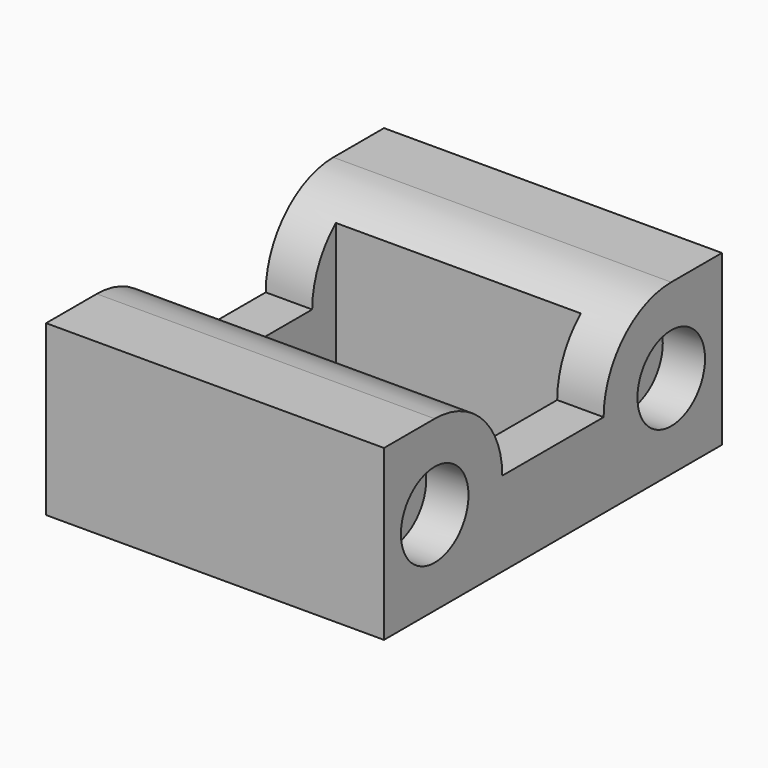
from build123d import *

# Parameters (mm, degrees)
SKETCH_W        = 40
SKETCH_H        = 50
SKETCH_W_2      = 28
SKETCH_H_2      = 21
PAD_DEPTH       = 20
SKETCH001_R     = 2.25
POCKET_DEPTH    = 40.001
SKETCH002_W     = 29
SKETCH002_H     = 22
POCKET001_DEPTH = 19
SKETCH003_R     = 5
POCKET002_DEPTH = 5
POCKET003_DEPTH = 40.001


with BuildPart() as part:
    # Sketch → Pad (new body)
    with BuildSketch(Plane.XY):
        with Locations((20, 25)):
            Rectangle(SKETCH_W, SKETCH_H)
        with Locations((20, 25)):
            Rectangle(SKETCH_W_2, SKETCH_H_2, mode=Mode.SUBTRACT)
    extrude(amount=PAD_DEPTH)

    # Sketch001 → Pocket (cut, through all)
    with BuildSketch(Plane.YZ.offset(40)):
        with Locations((7.5, 10)):
            Circle(SKETCH001_R)
        with Locations((42.5, 10)):
            Circle(SKETCH001_R)
    extrude(amount=-POCKET_DEPTH, mode=Mode.SUBTRACT)

    # Sketch002 → Pocket001 (cut)
    with BuildSketch(Plane.XY.offset(20)):
        with Locations((20, 25)):
            Rectangle(SKETCH002_W, SKETCH002_H)
    extrude(amount=-POCKET001_DEPTH, mode=Mode.SUBTRACT)

    # Sketch003 → Pocket002 (cut)
    with BuildSketch(Plane.YZ.offset(40)):
        with Locations((7.5, 10)):
            Circle(SKETCH003_R)
        with Locations((42.5, 10)):
            Circle(SKETCH003_R)
    extrude(amount=-POCKET002_DEPTH, mode=Mode.SUBTRACT)

    # Sketch004 → Pocket003 (cut, through all)
    with BuildSketch(Plane.YZ.offset(40)):
        with BuildLine():
            ThreePointArc((17.5, 10), (14.571068, 17.071068), (7.5, 20))
            Line((7.5, 20), (7.5, 22))
            Line((7.5, 22), (42.5, 22))
            Line((42.5, 22), (42.5, 20))
            ThreePointArc((42.5, 20), (35.428932, 17.071068), (32.5, 10))
            Line((32.5, 10), (17.5, 10))
        make_face()
    extrude(amount=-POCKET003_DEPTH, mode=Mode.SUBTRACT)


solid = part.part
